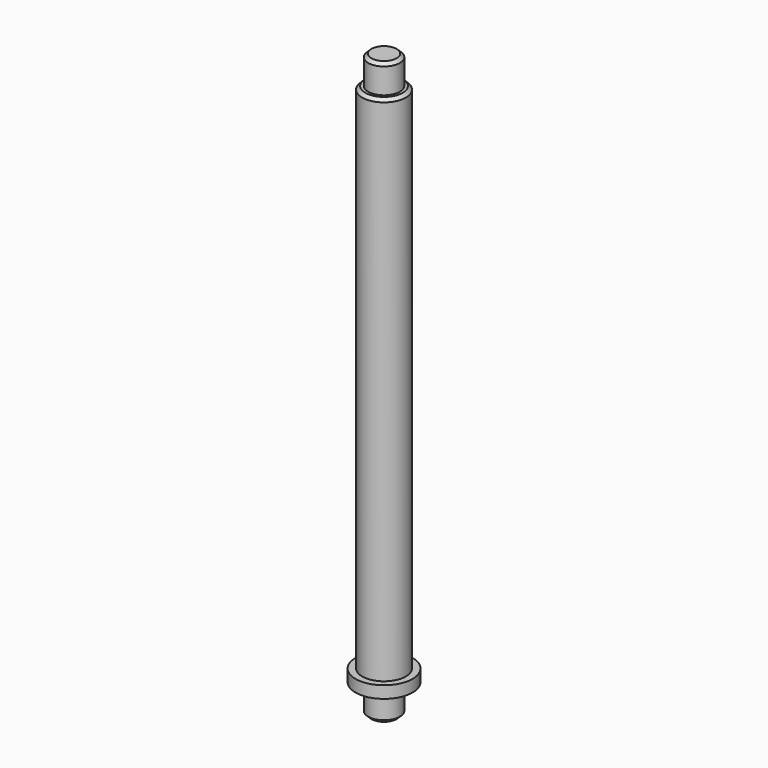
from build123d import *

# Parameters (mm, degrees)
F0_R     = 3.45
F1_DEPTH = 81
F2_R     = 2.5
F3_DEPTH = 4.5
F0_R_2   = 4.5
F4_DEPTH = 1.9
F5_R     = 2.5
F6_DEPTH = 4.5
F7_SIZE  = 0.5


with BuildPart() as f1:
    # F0 (on Top) → F1 (new body)
    with BuildSketch(Plane.XY):
        Circle(F0_R)
    extrude(amount=F1_DEPTH)

    # F2 (on face) → F3 (join)
    with BuildSketch(Plane.XY.offset(81)):
        Circle(F2_R)
    extrude(amount=F3_DEPTH)

    # F0 (on Top) → F4 (join)
    with BuildSketch(Plane.XY):
        Circle(F0_R_2)
        Circle(F0_R, mode=Mode.SUBTRACT)
        Circle(F0_R)
    extrude(amount=-F4_DEPTH)

    # F5 (on face) → F6 (join)
    with BuildSketch(Plane(origin=(0, 0, -1.9), x_dir=(1, 0, 0), z_dir=(0, 0, -1))):
        Circle(F5_R)
    extrude(amount=F6_DEPTH)

    # F7
    f7_edges = [f1.edges().sort_by_distance(p)[0] for p in [
        (-2.5, 0, 85.5),
        (-3.45, 0, 81),
        (-2.5, 0, -6.4),
    ]]
    chamfer(f7_edges, length=F7_SIZE)


solid = f1.part
